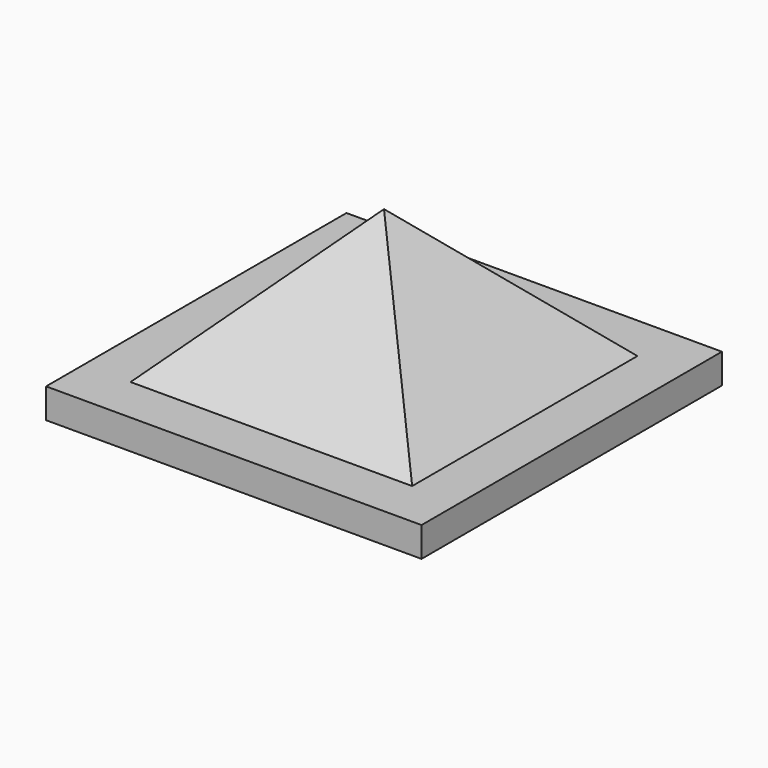
from build123d import *

# Parameters (mm, degrees)
F0_W     = 60
F0_H     = 60
F1_DEPTH = 30
F1_TAPER = 45
F2_W     = 80
F2_H     = 80
F2_W_2   = 60
F2_H_2   = 60
F3_DEPTH = 6.35


with BuildPart() as f1:
    # F0 (on Top) → F1 (new body)
    with BuildSketch(Plane.XY):
        Rectangle(F0_W, F0_H)
    extrude(amount=F1_DEPTH, taper=F1_TAPER)

    # F2 (on face) → F3 (join)
    with BuildSketch(Plane(origin=(0, 0, 0), x_dir=(1, 0, 0), z_dir=(0, 0, -1))):
        Rectangle(F2_W, F2_H)
        Rectangle(F2_W_2, F2_H_2, mode=Mode.SUBTRACT)
        Rectangle(F2_W_2, F2_H_2)
    extrude(amount=F3_DEPTH)


solid = f1.part
